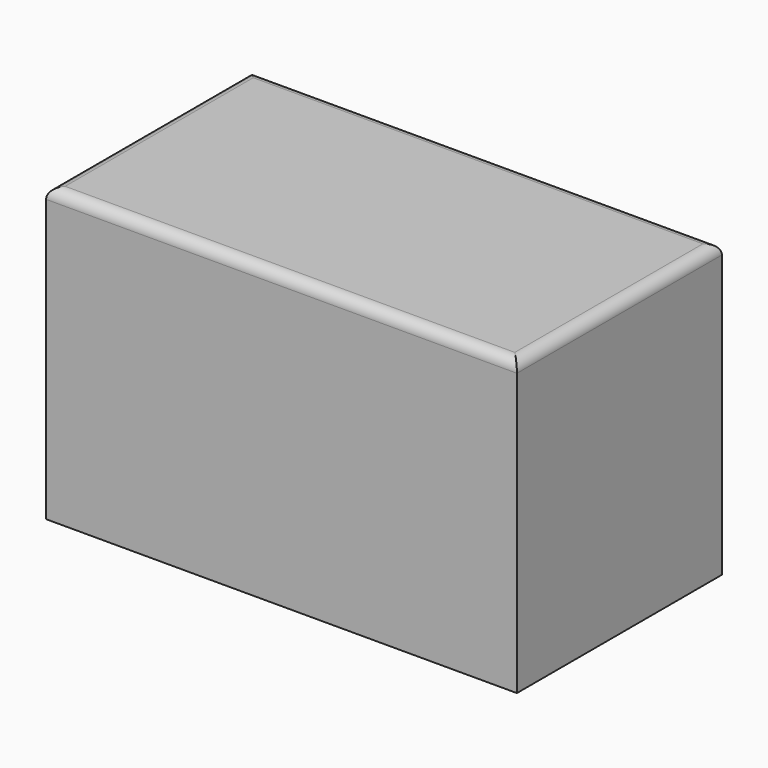
from build123d import *

# Parameters (mm, degrees)
F0_W     = 6.35
F0_H     = 122.7483414114
F0_W_2   = 219.1788511515
F1_DEPTH = 139.954
F2_R     = 5.08


with BuildPart() as f1:
    # F0 (on Top) → F1 (new body)
    with BuildSketch(Plane.XY):
        with Locations((-106.5829300404, -8.4380302578)):
            Rectangle(F0_W, F0_H)
        with Locations((6.1814955354, -8.4380302578)):
            Rectangle(F0_W_2, F0_H)
    extrude(amount=F1_DEPTH)

    # F2
    f2_edges = [f1.edges().sort_by_distance(p)[0] for p in [
        (3.006496, -69.812201, 139.954),
        (115.770921, -8.43803, 139.954),
        (3.006496, 52.93614, 139.954),
        (-109.75793, -8.43803, 139.954),
    ]]
    fillet(f2_edges, radius=F2_R)


solid = f1.part
